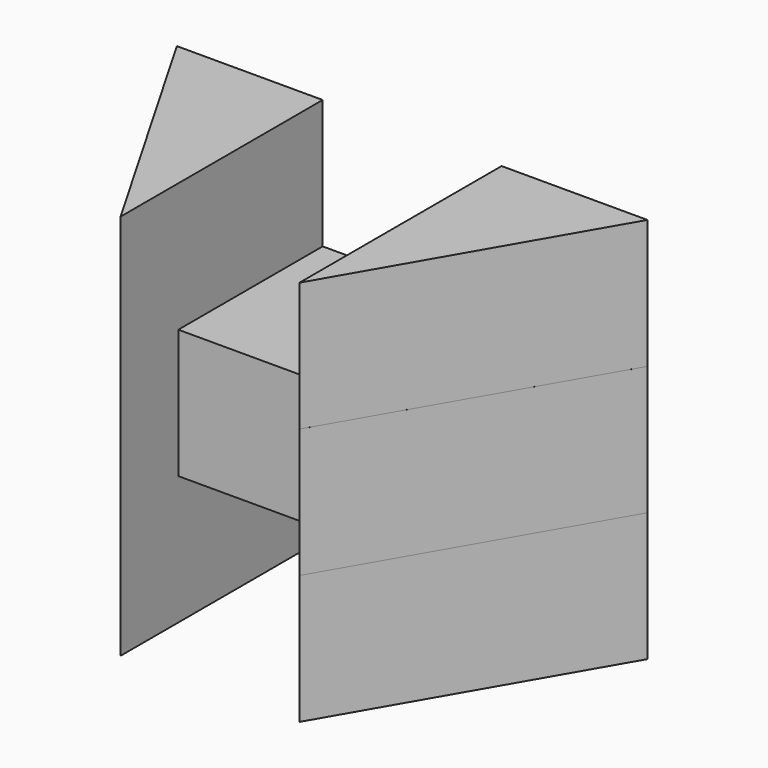
from build123d import *

# Parameters (mm, degrees)
PAD_DEPTH    = 5
PAD001_DEPTH = 5
PAD002_DEPTH = 5


with BuildPart() as part:
    # Sketch → Pad (new body)
    with BuildSketch(Plane.XY):
        Polygon((-3.47, -3.5), (3.47, -3.5), (3.47, -6.3), (9.128033, 3.5), (3.47, 3.5), (-3.47, 3.5), (-9.128033, 3.5), (-3.47, -6.3), align=None)
    extrude(amount=PAD_DEPTH)

    # Sketch001 (on Face9 of Pad) → Pad001 (join)
    with BuildSketch(Plane(origin=(0, 0, 0), x_dir=(1, 0, 0), z_dir=(0, 0, -1))):
        Polygon((-3.47, 6.299921), (-9.128033, -3.500079), (-3.47, -3.500079), align=None)
        Polygon((3.47, 6.299921), (9.128033, -3.500079), (3.47, -3.500079), align=None)
    extrude(amount=PAD001_DEPTH)

    # Sketch002 (on Face5 of Pad001) → Pad002 (join)
    with BuildSketch(Plane.XY.offset(5)):
        Polygon((-9.128033, 3.500297), (-3.47, -6.299703), (-3.47, 3.500297), align=None)
        Polygon((3.47, -6.299703), (3.47, 3.500297), (9.128033, 3.500297), align=None)
    extrude(amount=PAD002_DEPTH)


solid = part.part
